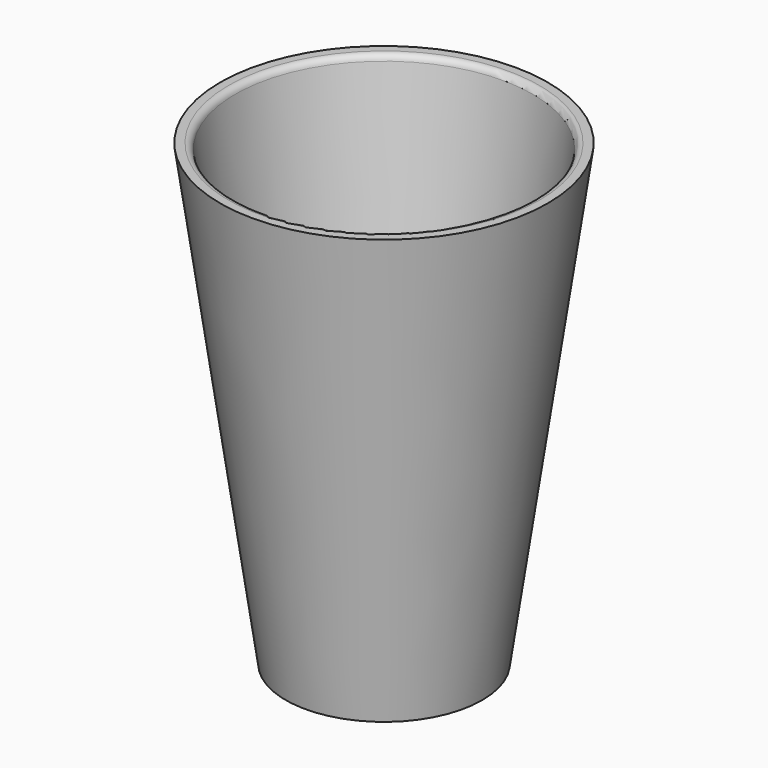
from build123d import *

# Parameters (mm, degrees)
FILLET_R = 1


with BuildPart() as con001:
    # Cone001 → Cone001 (revolve)
    with BuildSketch(Plane(origin=(0, 0, 1), x_dir=(1, 0, 0), z_dir=(0, -1, 0))):
        Polygon((0, 0), (13, 0), (23, 70), (0, 70), align=None)
    revolve(axis=Axis((0, 0, 1), (0, 0, 1)))


with BuildPart() as fillet_body:
    # Cone → Cone (revolve)
    with BuildSketch(Plane.XZ):
        Polygon((0, 0), (15, 0), (25, 70), (0, 70), align=None)
    revolve(axis=Axis((0, 0, 0), (0, 0, 1)))

    # Cut: cut Con001
    add(con001.part, mode=Mode.SUBTRACT)

    # Fillet
    fillet_edges = [fillet_body.edges().sort_by_distance(p)[0] for p in [
        (-22.857143, 0, 70),
    ]]
    fillet(fillet_edges, radius=FILLET_R)


solid = fillet_body.part
